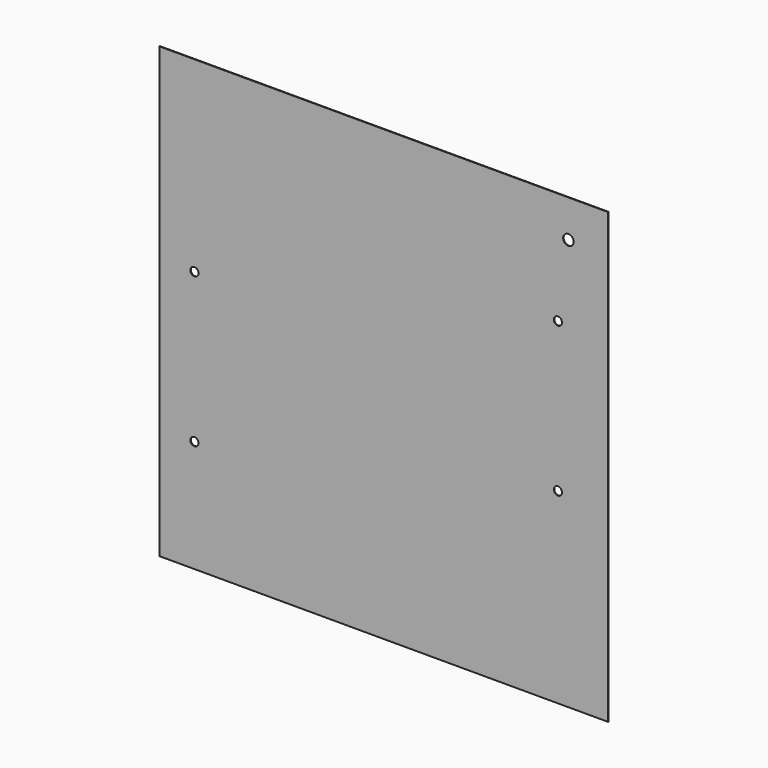
from build123d import *

# Parameters (mm, degrees)
F0_W     = 609.6
F0_H     = 609.6
F1_DEPTH = 0.79375
F2_R     = 5.55625
F3_DEPTH = 25.4
F4_R     = 7.14375
F5_DEPTH = 25.4


with BuildPart() as f1:
    # F0 (on Front) → F1 (new body)
    with BuildSketch(Plane.XZ):
        with Locations((304.8, 304.8)):
            Rectangle(F0_W, F0_H)
    extrude(amount=F1_DEPTH)

    # F2 (on face) → F3 (cut)
    with BuildSketch(Plane.XZ.offset(0.79375)):
        with Locations((47.625, 355.6)):
            Circle(F2_R)
        with Locations((47.625, 152.4)):
            Circle(F2_R)
        with Locations((541.3375, 254)):
            Circle(F2_R)
        with Locations((541.3375, 457.2)):
            Circle(F2_R)
    extrude(amount=-F3_DEPTH, mode=Mode.SUBTRACT)

    # F4 (on face) → F5 (cut)
    with BuildSketch(Plane.XZ.offset(0.79375)):
        with Locations((555.625, 558.8)):
            Circle(F4_R)
    extrude(amount=-F5_DEPTH, mode=Mode.SUBTRACT)


solid = f1.part
